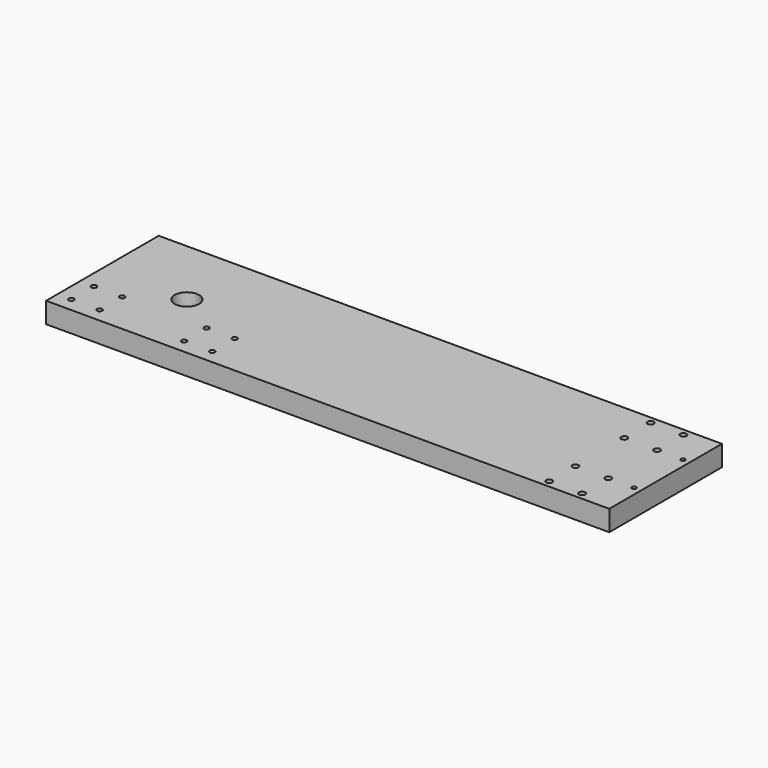
from build123d import *

# Parameters (mm, degrees)
F0_W     = 600
F0_H     = 150
F1_DEPTH = 22
F2_D     = 6.6
F3_D     = 5.5
F4_D     = 26
F5_D     = 4.5


with BuildPart() as f1:
    # F0 (on Top) → F1 (new body)
    with BuildSketch(Plane.XY):
        with Locations((269.0510096401, 81.4705566212)):
            Rectangle(F0_W, F0_H)
    extrude(amount=F1_DEPTH)

    # F2 (through all)
    with Locations(Plane(origin=(0, 0, 0), x_dir=(1, 0, 0), z_dir=(0, 0, -1))):
        with Locations((499.0510096401, -113.9705566212), (534.0510096401, -113.9705566212), (499.0510096401, -148.9705566212), (534.0510096401, -148.9705566212), (534.0510096401, -13.9705566212), (499.0510096401, -48.9705566212), (499.0510096401, -13.9705566212), (534.0510096401, -48.9705566212)):
            Hole(F2_D / 2)

    # F3 (through all)
    with Locations(Plane(origin=(0, 0, 0), x_dir=(1, 0, 0), z_dir=(0, 0, -1))):
        with Locations((-15.9489903599, -21.4705566212), (14.0510096401, -21.4705566212), (104.0510096401, -51.4705566212), (104.0510096401, -21.4705566212), (14.0510096401, -51.4705566212), (134.0510096401, -51.4705566212), (134.0510096401, -21.4705566212), (-15.9489903599, -51.4705566212)):
            Hole(F3_D / 2)

    # F4 (through all)
    with Locations(Plane(origin=(0, 0, 0), x_dir=(1, 0, 0), z_dir=(0, 0, -1))):
        with Locations((59.0510096401, -81.4705566212)):
            Hole(F4_D / 2)

    # F5 (through all)
    with Locations(Plane(origin=(0, 0, 0), x_dir=(1, 0, 0), z_dir=(0, 0, -1))):
        with Locations((561.5510096401, -113.9705566212), (561.5510096401, -48.9705566212)):
            Hole(F5_D / 2)


solid = f1.part
